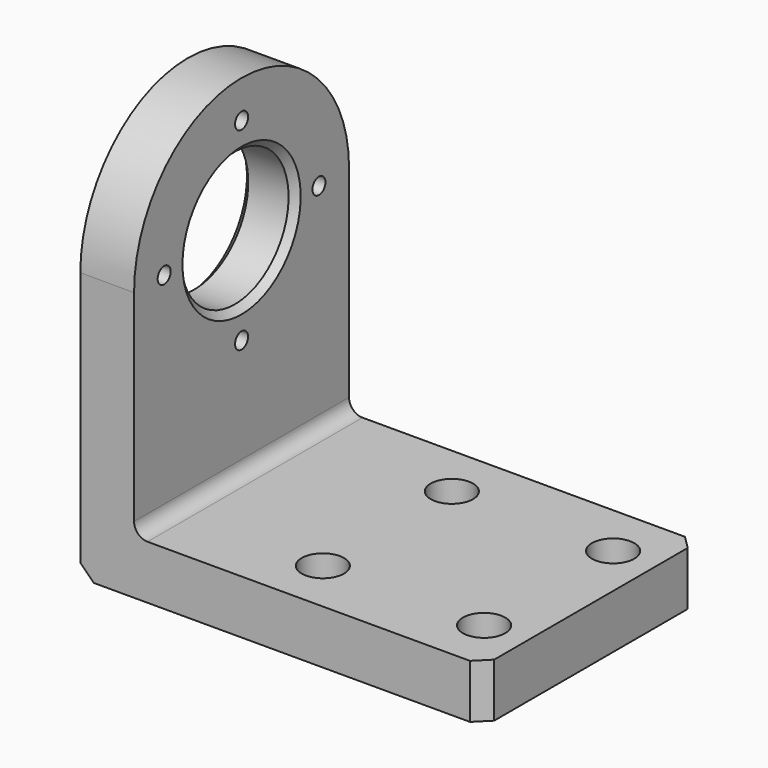
from build123d import *

# Parameters (mm, degrees)
F1_W            = 10
F1_H            = 40
F1_W_2          = 180
F2_DEPTH        = 40
F3_D            = 12.1
F4_W            = 300
F4_H            = 200
F5_DEPTH        = 40
F6_SIZE         = 10
F7_SIZE         = 10
F8_SIZE         = 10
F9_R            = 10
F10_SIZE        = 5
F12_D           = 17.5
F12_CBORE_D     = 31.5
F12_CBORE_DEPTH = 20


with BuildPart() as f2:
    # F1 (on Right) → F2 (new body)
    with BuildSketch(Plane.YZ):
        with Locations((5, 20)):
            Rectangle(F1_W, F1_H)
        with Locations((100, 20)):
            Rectangle(F1_W_2, F1_H)
        with BuildLine():
            Line((0, 200), (0, 40))
            Line((0, 40), (10, 40))
            Line((10, 40), (190, 40))
            Line((190, 40), (200, 40))
            Line((200, 40), (200, 200))
            ThreePointArc((200, 200), (100, 100), (0, 200))
        make_face()
        with Locations((195, 20)):
            Rectangle(F1_W, F1_H)
        with BuildLine():
            ThreePointArc((200, 200), (100, 300), (0, 200))
            Line((0, 200), (50, 200))
            ThreePointArc((50, 200), (100, 250), (150, 200))
            Line((150, 200), (200, 200))
        make_face()
        with BuildLine():
            Line((50, 200), (0, 200))
            ThreePointArc((0, 200), (100, 100), (200, 200))
            Line((200, 200), (150, 200))
            ThreePointArc((150, 200), (100, 150), (50, 200))
        make_face()
    extrude(amount=F2_DEPTH)

    # F3 (through all)
    with Locations(Plane(origin=(0, 0, 0), x_dir=(0, 1, 0), z_dir=(-1, 0, 0))):
        with Locations((100, -272), (100, -128), (172, -200), (28, -200)):
            Hole(F3_D / 2)

    # F4 (on Top) → F5 (join)
    with BuildSketch(Plane.XY):
        with Locations((150, 100)):
            Rectangle(F4_W, F4_H)
    extrude(amount=F5_DEPTH)

    # F6
    f6_edges = [f2.edges().sort_by_distance(p)[0] for p in [
        (300, 0, 20),
    ]]
    chamfer(f6_edges, length=F6_SIZE)

    # F7
    f7_edges = [f2.edges().sort_by_distance(p)[0] for p in [
        (300, 200, 20),
    ]]
    chamfer(f7_edges, length=F7_SIZE)

    # F8
    f8_edges = [f2.edges().sort_by_distance(p)[0] for p in [
        (0, 100, 0),
    ]]
    chamfer(f8_edges, length=F8_SIZE)

    # F9
    f9_edges = [f2.edges().sort_by_distance(p)[0] for p in [
        (40, 100, 40),
    ]]
    fillet(f9_edges, radius=F9_R)

    # F10
    f10_edges = [f2.edges().sort_by_distance(p)[0] for p in [
        (40, 150, 200),
        (0, 150, 200),
    ]]
    chamfer(f10_edges, length=F10_SIZE)

    # F12 (through all)
    with Locations(Plane.XY.offset(40)):
        with Locations((268.5, 40), (148.5, 40), (148.5, 160), (268.5, 160)):
            CounterBoreHole(F12_D / 2, F12_CBORE_D / 2, F12_CBORE_DEPTH)


solid = f2.part
